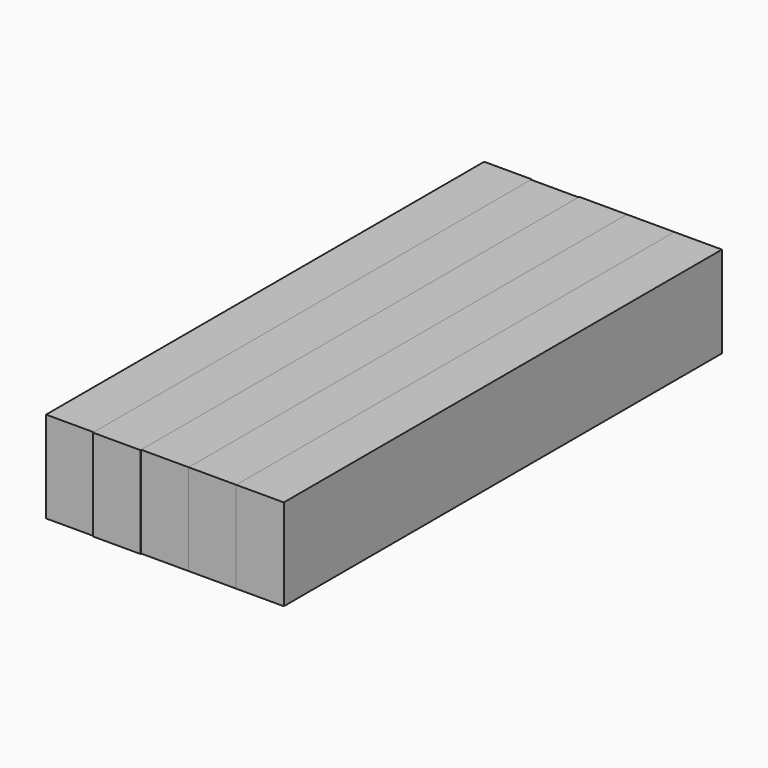
from build123d import *

# Parameters (mm, degrees)
F0_W     = 13.217822
F0_H     = 152.145564
F1_DEPTH = 25.4


with BuildPart() as f1:
    # F0 (on Top) → F1 (new body)
    with BuildSketch(Plane.XY):
        with Locations((-69.885716, 0)):
            Rectangle(F0_W, F0_H)
    extrude(amount=F1_DEPTH)


with BuildPart() as f2_1:
    # F2: copy of F1
    add(f1.part.moved(Location((13.208, -0.254, 0))))


with BuildPart() as f3_1:
    # F3: copy of F1
    add(f1.part.moved(Location((26.416, 0, 0))))


with BuildPart() as f4_1:
    # F4: copy of F1
    add(f1.part.moved(Location((39.624, 0, 0))))


with BuildPart() as f5_1:
    # F5: copy of F1
    add(f1.part.moved(Location((52.832, 0, 0))))


solid = Compound([f1.part, f2_1.part, f3_1.part, f4_1.part, f5_1.part])
